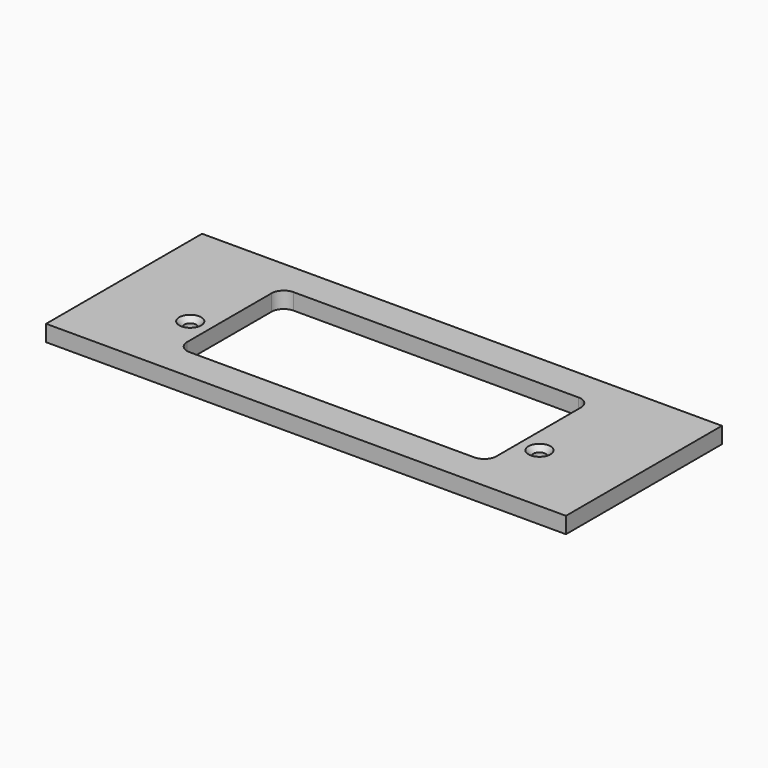
from build123d import *

# Parameters (mm, degrees)
F0_W           = 203.2
F0_H           = 76.2
F1_DEPTH       = 6.35
F4_D           = 4.7625
F4_CSINK_D     = 8.6106
F4_CSINK_ANGLE = 90


with BuildPart() as f1:
    # F0 (on Top) → F1 (new body)
    with BuildSketch(Plane.XY):
        with Locations((-2.091912, -4.58742)):
            Rectangle(F0_W, F0_H)
        with BuildLine():
            ThreePointArc((-62.543912, 16.05008), (-61.149008, 19.417676), (-57.781412, 20.81258))
            Line((-57.781412, 20.81258), (53.597588, 20.81258))
            ThreePointArc((53.597588, 20.81258), (56.965184, 19.417676), (58.360088, 16.05008))
            Line((58.360088, 16.05008), (58.360088, -25.22492))
            ThreePointArc((58.360088, -25.22492), (56.965184, -28.592516), (53.597588, -29.98742))
            Line((53.597588, -29.98742), (-57.781412, -29.98742))
            ThreePointArc((-57.781412, -29.98742), (-61.149008, -28.592516), (-62.543912, -25.22492))
            Line((-62.543912, -25.22492), (-62.543912, 16.05008))
        make_face(mode=Mode.SUBTRACT)
    extrude(amount=F1_DEPTH)

    # F4 (through all)
    with Locations(Plane.XY.offset(6.35)):
        with Locations((-70.341712, -13.93462), (66.157888, -13.93462)):
            CounterSinkHole(F4_D / 2, F4_CSINK_D / 2, counter_sink_angle=F4_CSINK_ANGLE)


solid = f1.part
